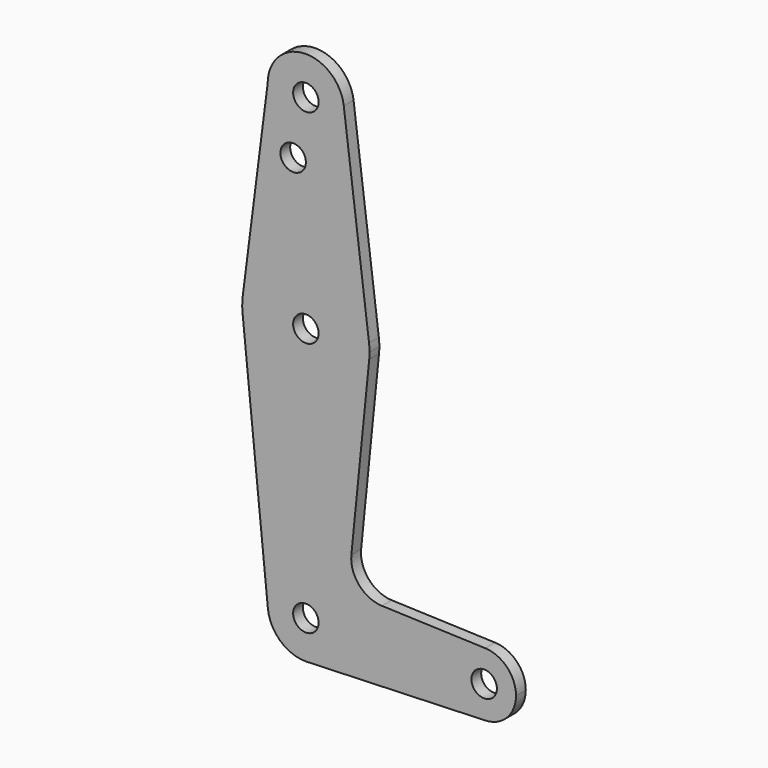
from build123d import *

# Parameters (mm, degrees)
F0_R     = 3.175
F1_DEPTH = 3.048


with BuildPart() as f1:
    # F0 (on Front) → F1 (new body)
    with BuildSketch(Plane.XZ):
        with BuildLine():
            ThreePointArc((-40.99664, 92.409473), (-31.47164, 82.884473), (-21.94664, 92.409473))
            ThreePointArc((-21.94664, 92.409473), (-21.965335, 93.005956), (-22.021347, 93.600098))
            ThreePointArc((-22.021347, 93.600098), (-32.068123, 101.915778), (-40.99664, 92.409473))
        make_face()
        with Locations((-31.47164, 92.409473)):
            Circle(F0_R, mode=Mode.SUBTRACT)
        with BuildLine():
            ThreePointArc((-22.021347, 93.600098), (-21.965335, 93.005956), (-21.94664, 92.409473))
            ThreePointArc((-21.94664, 92.409473), (-31.47164, 82.884473), (-40.99664, 92.409473))
            Line((-40.99664, 92.409473), (-47.219097, 43.617762))
            ThreePointArc((-47.219097, 43.617762), (-31.459587, 57.484468), (-15.721152, 43.593848))
            Line((-15.721152, 43.593848), (-22.021347, 93.600098))
        make_face()
        with Locations((-34.64664, 78.134673)):
            Circle(F0_R, mode=Mode.SUBTRACT)
        with BuildLine():
            ThreePointArc((-15.59664, 41.609473), (-15.627799, 42.603611), (-15.721152, 43.593848))
            ThreePointArc((-15.721152, 43.593848), (-31.459587, 57.484468), (-47.219097, 43.617762))
            ThreePointArc((-47.219097, 43.617762), (-47.345228, 41.82123), (-47.267066, 40.021973))
            ThreePointArc((-47.267066, 40.021973), (-31.47164, 25.734473), (-15.676215, 40.021973))
            ThreePointArc((-15.676215, 40.021973), (-15.616546, 40.814726), (-15.59664, 41.609473))
        make_face()
        with Locations((-31.47164, 41.609473)):
            Circle(F0_R, mode=Mode.SUBTRACT)
        with BuildLine():
            ThreePointArc((-15.676215, 40.021973), (-31.47164, 25.734473), (-47.267066, 40.021973))
            Line((-47.267066, 40.021973), (-40.948896, -22.843027))
            ThreePointArc((-40.948896, -22.843027), (-31.948488, -12.377471), (-21.94664, -21.890527))
            ThreePointArc((-21.94664, -21.890527), (-24.501083, -28.381826), (-30.794297, -31.391413))
            Line((-30.794297, -31.391413), (13.260765, -29.823002))
            ThreePointArc((13.260765, -29.823002), (5.04086, -21.890527), (13.260765, -13.958053))
            Line((13.260765, -13.958053), (-12.503312, -13.040822))
            ThreePointArc((-12.503312, -13.040822), (-18.210436, -10.323064), (-20.130804, -4.300635))
            Line((-20.130804, -4.300635), (-15.676215, 40.021973))
        make_face()
        with BuildLine():
            ThreePointArc((-21.94664, -21.890527), (-31.948488, -12.377471), (-40.948896, -22.843027))
            ThreePointArc((-40.948896, -22.843027), (-37.861204, -28.954456), (-31.47164, -31.415527))
            Line((-31.47164, -31.415527), (-30.794297, -31.391413))
            ThreePointArc((-30.794297, -31.391413), (-24.501083, -28.381826), (-21.94664, -21.890527))
        make_face()
        with Locations((-31.47164, -21.890527)):
            Circle(F0_R, mode=Mode.SUBTRACT)
        with BuildLine():
            Line((-30.794297, -31.391413), (-31.47164, -31.415527))
            ThreePointArc((-31.47164, -31.415527), (-31.132754, -31.409497), (-30.794297, -31.391413))
        make_face()
        with BuildLine():
            ThreePointArc((20.91586, -21.890527), (18.689993, -16.378617), (13.260765, -13.958053))
            ThreePointArc((13.260765, -13.958053), (5.04086, -21.890527), (13.260765, -29.823002))
            ThreePointArc((13.260765, -29.823002), (18.689993, -27.402438), (20.91586, -21.890527))
        make_face()
        with Locations((12.97836, -21.890527)):
            Circle(F0_R, mode=Mode.SUBTRACT)
    extrude(amount=F1_DEPTH)


solid = f1.part
